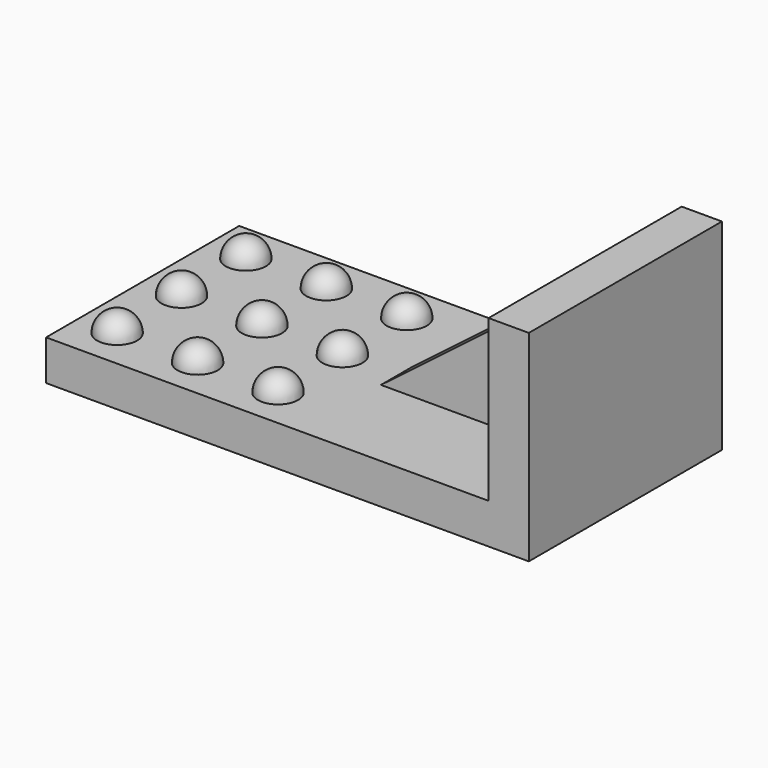
from build123d import *

# Parameters (mm, degrees)
F0_W     = 76.2
F0_H     = 38.1
F1_DEPTH = 6.35
F6_W     = 6.35
F6_H     = 38.1
F7_DEPTH = 25.4
F9_DEPTH = 3.175


with BuildPart() as f1:
    # F0 (on Top) → F1 (new body)
    with BuildSketch(Plane.XY):
        Rectangle(F0_W, F0_H)
    extrude(amount=-F1_DEPTH)

    # F2 (on face) → F3 (revolve)
    with BuildSketch(Plane.XY):
        with BuildLine():
            Line((-31.9676950246, 9.525), (-31.9676950246, 15.875))
            ThreePointArc((-31.9676950246, 15.875), (-35.1426950246, 12.7), (-31.9676950246, 9.525))
        make_face()
        with BuildLine():
            Line((-31.9676950246, -3.175), (-31.9676950246, 3.175))
            ThreePointArc((-31.9676950246, 3.175), (-35.1426950246, 0), (-31.9676950246, -3.175))
        make_face()
        with BuildLine():
            Line((-31.9676950246, -15.875), (-31.9676950246, -9.525))
            ThreePointArc((-31.9676950246, -9.525), (-35.1426950246, -12.7), (-31.9676950246, -15.875))
        make_face()
    revolve(axis=Axis((-31.9676950246, 0, 0), (0, 1, 0)))

    # F2 (on face) → F4 (revolve)
    with BuildSketch(Plane.XY):
        with BuildLine():
            Line((-19.2676950246, 9.525), (-19.2676950246, 15.875))
            ThreePointArc((-19.2676950246, 15.875), (-22.4426950246, 12.7), (-19.2676950246, 9.525))
        make_face()
        with BuildLine():
            Line((-19.2676950246, -3.175), (-19.2676950246, 3.175))
            ThreePointArc((-19.2676950246, 3.175), (-22.4426950246, 0), (-19.2676950246, -3.175))
        make_face()
        with BuildLine():
            Line((-19.2676950246, -15.875), (-19.2676950246, -9.525))
            ThreePointArc((-19.2676950246, -9.525), (-22.4426950246, -12.7), (-19.2676950246, -15.875))
        make_face()
    revolve(axis=Axis((-19.2676950246, 0, 0), (0, 1, 0)))

    # F2 (on face) → F5 (revolve)
    with BuildSketch(Plane.XY):
        with BuildLine():
            Line((-6.5676950246, 9.525), (-6.5676950246, 15.875))
            ThreePointArc((-6.5676950246, 15.875), (-9.7426950246, 12.7), (-6.5676950246, 9.525))
        make_face()
        with BuildLine():
            Line((-6.5676950246, -3.175), (-6.5676950246, 3.175))
            ThreePointArc((-6.5676950246, 3.175), (-9.7426950246, 0), (-6.5676950246, -3.175))
        make_face()
        with BuildLine():
            Line((-6.5676950246, -15.875), (-6.5676950246, -9.525))
            ThreePointArc((-6.5676950246, -9.525), (-9.7426950246, -12.7), (-6.5676950246, -15.875))
        make_face()
    revolve(axis=Axis((-6.5676950246, -12.7, 0), (0, 1, 0)))

    # F6 (on face) → F7 (join)
    with BuildSketch(Plane.XY):
        with Locations((34.925, 0)):
            Rectangle(F6_W, F6_H)
    extrude(amount=F7_DEPTH)

    # F8 (on Front) → F9 (join, symmetric)
    with BuildSketch(Plane.XZ):
        Polygon((31.75, 0), (31.75, 22.6986259222), (2.0545818843, 0), align=None)
    extrude(amount=F9_DEPTH, both=True)


solid = f1.part
